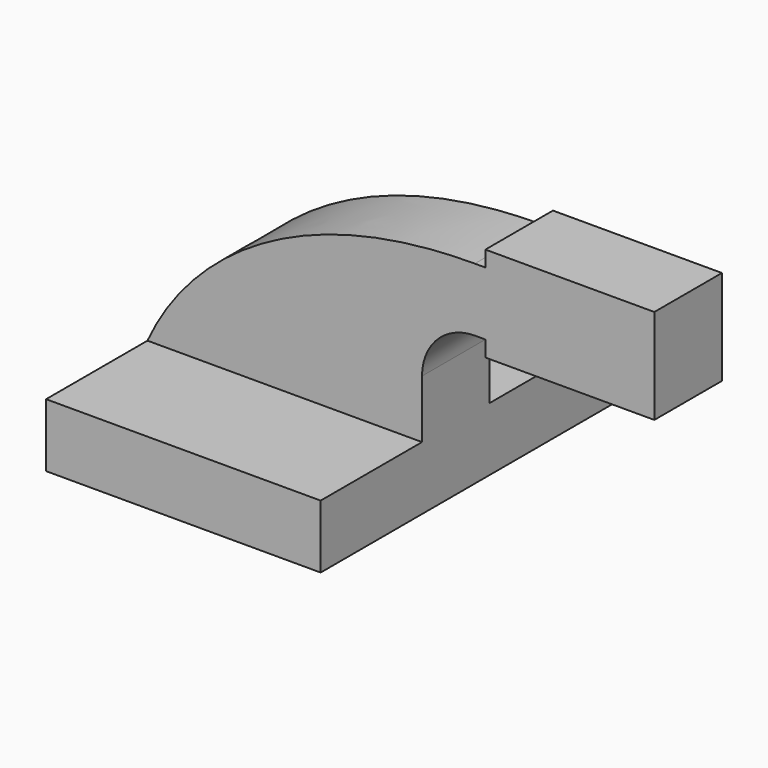
from build123d import *

# Parameters (mm, degrees)
F0_W     = 82.55
F0_H     = 19.05
F1_DEPTH = 63.5
F2_DEPTH = 25.4


with BuildPart() as f1:
    # F0 (on Front) → F1 (new body, symmetric)
    with BuildSketch(Plane.XZ):
        Rectangle(F0_W, F0_H)
    extrude(amount=F1_DEPTH, both=True)

    # F0 (on Front) → F2 (join)
    with BuildSketch(Plane.XZ):
        Rectangle(F0_W, F0_H)
        with BuildLine():
            Line((-41.275, 9.525), (41.275, 9.525))
            Line((41.275, 9.525), (41.275, 27.0002))
            ThreePointArc((41.275, 27.0002), (45.92468, 38.22552), (57.15, 42.8752))
            Line((57.15, 42.8752), (60.325, 42.8752))
            Line((60.325, 42.8752), (60.325, 61.9252))
            Line((60.325, 61.9252), (57.15, 61.9252))
            add(Edge.make_bspline(
                [(-41.275, 9.525), (-28.798826, 36.964629), (3.389905, 61.9252), (57.15, 61.9252)],
                knots=[0, 0, 0, 0, 111.504536, 111.504536, 111.504536, 111.504536], degree=3))
        make_face()
        Polygon((60.325, 66.675), (60.325, 61.9252), (60.325, 42.8752), (60.325, 38.1), (85.725, 38.1), (85.583121, 66.675), align=None)
        Polygon((111.125, 66.675), (85.583121, 66.675), (85.725, 38.1), (111.125, 38.1), align=None)
    extrude(amount=F2_DEPTH)


solid = f1.part
